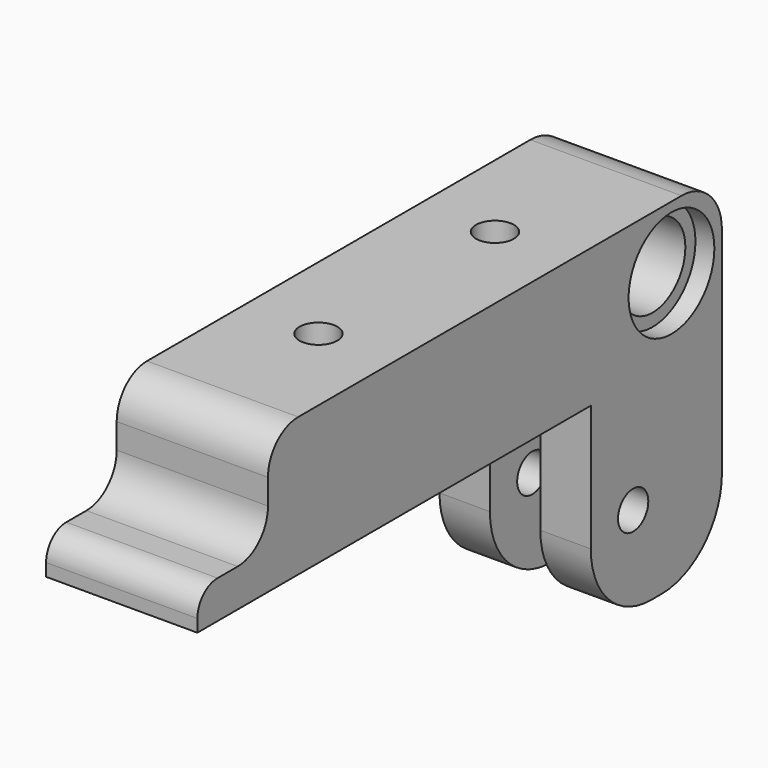
from build123d import *

# Parameters (mm, degrees)
F1_DEPTH  = 12
F2_R      = 3.25
F3_DEPTH  = 12.001
F5_R      = 4.25
F6_DEPTH  = 1.5
F4_R      = 1.5
F7_DEPTH  = 27.001
F8_R      = 4
F9_R      = 3
F10_R     = 2
F11_R     = 1.5
F12_DEPTH = 12.001
F13_W     = 4
F13_H     = 13
F14_DEPTH = 16
F15_R     = 6


with BuildPart() as f1:
    # F0 (on Right) → F1 (new body)
    with BuildSketch(Plane.YZ):
        Polygon((22.85307, 20.83832), (-22.14693, 20.83832), (-22.14693, 12.83832), (-29.14693, 12.83832), (-29.14693, 9.83832), (9.85307, 9.83832), (9.85307, -6.16168), (22.85307, -6.16168), align=None)
    extrude(amount=F1_DEPTH)

    # F2 (on face) → F3 (cut, through all)
    with BuildSketch(Plane.YZ.offset(12)):
        with Locations((17.85307, 15.83832)):
            Circle(F2_R)
    extrude(amount=-F3_DEPTH, mode=Mode.SUBTRACT)

    # F5 (on face) → F6 (cut)
    with BuildSketch(Plane.YZ.offset(12)):
        with Locations((17.85307, 15.83832)):
            Circle(F5_R)
    extrude(amount=-F6_DEPTH, mode=Mode.SUBTRACT)

    # F4 (on face) → F7 (cut, through all)
    with BuildSketch(Plane.XY.offset(20.83832)):
        with Locations((6, 7.85307)):
            Circle(F4_R)
        with Locations((6, -9.64693)):
            Circle(F4_R)
    extrude(amount=-F7_DEPTH, mode=Mode.SUBTRACT)

    # F8
    f8_edges = [f1.edges().sort_by_distance(p)[0] for p in [
        (6, 22.85307, 20.83832),
    ]]
    fillet(f8_edges, radius=F8_R)

    # F9
    f9_edges = [f1.edges().sort_by_distance(p)[0] for p in [
        (6, -22.14693, 20.83832),
        (6, -22.14693, 12.83832),
    ]]
    fillet(f9_edges, radius=F9_R)

    # F10
    f10_edges = [f1.edges().sort_by_distance(p)[0] for p in [
        (6, -29.14693, 12.83832),
    ]]
    fillet(f10_edges, radius=F10_R)

    # F11 (on face) → F12 (cut, through all)
    with BuildSketch(Plane.YZ.offset(12)):
        with Locations((14.05307, 0.83832)):
            Circle(F11_R)
    extrude(amount=-F12_DEPTH, mode=Mode.SUBTRACT)

    # F13 (on face) → F14 (cut)
    with BuildSketch(Plane(origin=(0, 0, -6.16168), x_dir=(1, 0, 0), z_dir=(0, 0, -1))):
        with Locations((6, -16.35307)):
            Rectangle(F13_W, F13_H)
    extrude(amount=-F14_DEPTH, mode=Mode.SUBTRACT)

    # F15
    f15_edges = [f1.edges().sort_by_distance(p)[0] for p in [
        (2, 9.85307, -6.16168),
        (10, 9.85307, -6.16168),
        (2, 22.85307, -6.16168),
        (10, 22.85307, -6.16168),
    ]]
    fillet(f15_edges, radius=F15_R)


solid = f1.part
